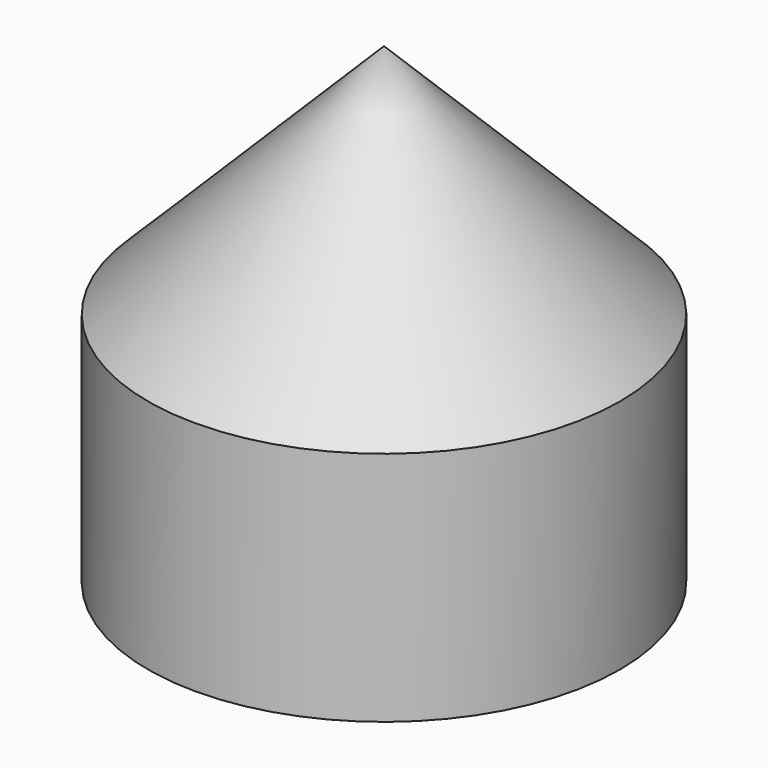
from build123d import *

# Parameters (mm, degrees)
F3_D     = 4.7625
F3_DEPTH = 6.35
F3_TIP   = 1.4307993491


with BuildPart() as f1:
    # F0 (on Right) → F1 (revolve)
    with BuildSketch(Plane.YZ):
        Polygon((-6.35, 6.35), (-6.35, 0), (0, 0), (0, 12.7), align=None)
    revolve(axis=Axis((0, 0, 6.35), (0, 0, -1)))

    # F3
    with Locations(Plane(origin=(0, 0, 0), x_dir=(1, 0, 0), z_dir=(0, 0, -1))):
        with Locations((0, 0)):
            Hole(F3_D / 2, depth=F3_DEPTH)
            with Locations((0, 0, -(F3_DEPTH + F3_TIP / 2))):  # 118° drill point
                Cone(0, F3_D / 2, F3_TIP, mode=Mode.SUBTRACT)


solid = f1.part
